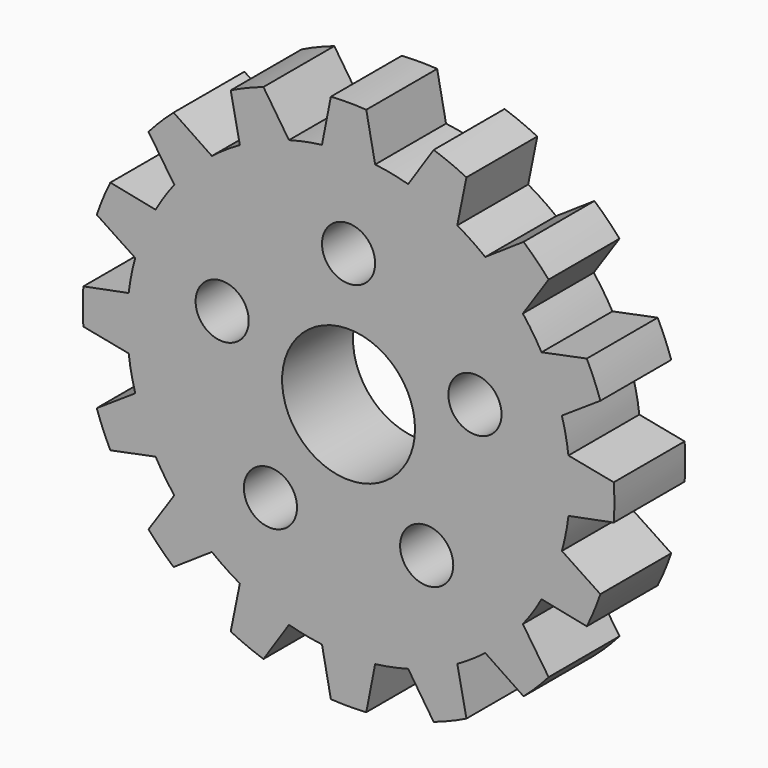
from build123d import *

# Parameters (mm, degrees)
F0_R     = 3
F0_R_2   = 7.5
F1_DEPTH = 10


with BuildPart() as f1:
    # F0 (on Front) → F1 (new body)
    with BuildSketch(Plane.XZ):
        with BuildLine():
            Line((-13.302721, 26.889359), (-12.269592, 21.782037))
            ThreePointArc((-12.269592, 21.782037), (-13.889256, 20.78674), (-15.428608, 19.671249))
            Line((-15.428608, 19.671249), (-19.751797, 22.580224))
            ThreePointArc((-19.751797, 22.580224), (-21.213203, 21.213203), (-22.580224, 19.751797))
            Line((-22.580224, 19.751797), (-19.671249, 15.428608))
            ThreePointArc((-19.671249, 15.428608), (-20.78674, 13.889256), (-21.782037, 12.269592))
            Line((-21.782037, 12.269592), (-26.889359, 13.302721))
            ThreePointArc((-26.889359, 13.302721), (-27.716386, 11.480503), (-28.420092, 9.607203))
            Line((-28.420092, 9.607203), (-24.078137, 6.726314))
            ThreePointArc((-24.078137, 6.726314), (-24.519632, 4.877258), (-24.819347, 3))
            Line((-24.819347, 3), (-29.933259, 2))
            ThreePointArc((-29.933259, 2), (-30, 0), (-29.933259, -2))
            Line((-29.933259, -2), (-24.819347, -3))
            ThreePointArc((-24.819347, -3), (-24.519632, -4.877258), (-24.078137, -6.726314))
            Line((-24.078137, -6.726314), (-28.420092, -9.607203))
            ThreePointArc((-28.420092, -9.607203), (-27.716386, -11.480503), (-26.889359, -13.302721))
            Line((-26.889359, -13.302721), (-21.782037, -12.269592))
            ThreePointArc((-21.782037, -12.269592), (-20.78674, -13.889256), (-19.671249, -15.428608))
            Line((-19.671249, -15.428608), (-22.580224, -19.751797))
            ThreePointArc((-22.580224, -19.751797), (-21.213203, -21.213203), (-19.751797, -22.580224))
            Line((-19.751797, -22.580224), (-15.428608, -19.671249))
            ThreePointArc((-15.428608, -19.671249), (-13.889256, -20.78674), (-12.269592, -21.782037))
            Line((-12.269592, -21.782037), (-13.302721, -26.889359))
            ThreePointArc((-13.302721, -26.889359), (-11.480503, -27.716386), (-9.607203, -28.420092))
            Line((-9.607203, -28.420092), (-6.726314, -24.078137))
            ThreePointArc((-6.726314, -24.078137), (-4.877258, -24.519632), (-3, -24.819347))
            Line((-3, -24.819347), (-2, -29.933259))
            ThreePointArc((-2, -29.933259), (0, -30), (2, -29.933259))
            Line((2, -29.933259), (3, -24.819347))
            ThreePointArc((3, -24.819347), (4.877258, -24.519632), (6.726314, -24.078137))
            Line((6.726314, -24.078137), (9.607203, -28.420092))
            ThreePointArc((9.607203, -28.420092), (11.480503, -27.716386), (13.302721, -26.889359))
            Line((13.302721, -26.889359), (12.269592, -21.782037))
            ThreePointArc((12.269592, -21.782037), (13.889256, -20.78674), (15.428608, -19.671249))
            Line((15.428608, -19.671249), (19.751797, -22.580224))
            ThreePointArc((19.751797, -22.580224), (21.213203, -21.213203), (22.580224, -19.751797))
            Line((22.580224, -19.751797), (19.671249, -15.428608))
            ThreePointArc((19.671249, -15.428608), (20.78674, -13.889256), (21.782037, -12.269592))
            Line((21.782037, -12.269592), (26.889359, -13.302721))
            ThreePointArc((26.889359, -13.302721), (27.716386, -11.480503), (28.420092, -9.607203))
            Line((28.420092, -9.607203), (24.078137, -6.726314))
            ThreePointArc((24.078137, -6.726314), (24.519632, -4.877258), (24.819347, -3))
            Line((24.819347, -3), (29.933259, -2))
            ThreePointArc((29.933259, -2), (30, 0), (29.933259, 2))
            Line((29.933259, 2), (24.819347, 3))
            ThreePointArc((24.819347, 3), (24.519632, 4.877258), (24.078137, 6.726314))
            Line((24.078137, 6.726314), (28.420092, 9.607203))
            ThreePointArc((28.420092, 9.607203), (27.716386, 11.480503), (26.889359, 13.302721))
            Line((26.889359, 13.302721), (21.782037, 12.269592))
            ThreePointArc((21.782037, 12.269592), (20.78674, 13.889256), (19.671249, 15.428608))
            Line((19.671249, 15.428608), (22.580224, 19.751797))
            ThreePointArc((22.580224, 19.751797), (21.213203, 21.213203), (19.751797, 22.580224))
            Line((19.751797, 22.580224), (15.428608, 19.671249))
            ThreePointArc((15.428608, 19.671249), (13.889256, 20.78674), (12.269592, 21.782037))
            Line((12.269592, 21.782037), (13.302721, 26.889359))
            ThreePointArc((13.302721, 26.889359), (11.480503, 27.716386), (9.607203, 28.420092))
            Line((9.607203, 28.420092), (6.726314, 24.078137))
            ThreePointArc((6.726314, 24.078137), (4.877258, 24.519632), (3, 24.819347))
            Line((3, 24.819347), (2, 29.933259))
            ThreePointArc((2, 29.933259), (0, 30), (-2, 29.933259))
            Line((-2, 29.933259), (-3, 24.819347))
            ThreePointArc((-3, 24.819347), (-4.877258, 24.519632), (-6.726314, 24.078137))
            Line((-6.726314, 24.078137), (-9.607203, 28.420092))
            ThreePointArc((-9.607203, 28.420092), (-11.480503, 27.716386), (-13.302721, 26.889359))
        make_face()
        with Locations((-8.816779, -12.135255)):
            Circle(F0_R, mode=Mode.SUBTRACT)
        with Locations((8.816779, -12.135255)):
            Circle(F0_R, mode=Mode.SUBTRACT)
        with Locations((-14.265848, 4.635255)):
            Circle(F0_R, mode=Mode.SUBTRACT)
        Circle(F0_R_2, mode=Mode.SUBTRACT)
        with Locations((14.265848, 4.635255)):
            Circle(F0_R, mode=Mode.SUBTRACT)
        with Locations((0, 15)):
            Circle(F0_R, mode=Mode.SUBTRACT)
    extrude(amount=F1_DEPTH)


solid = f1.part
